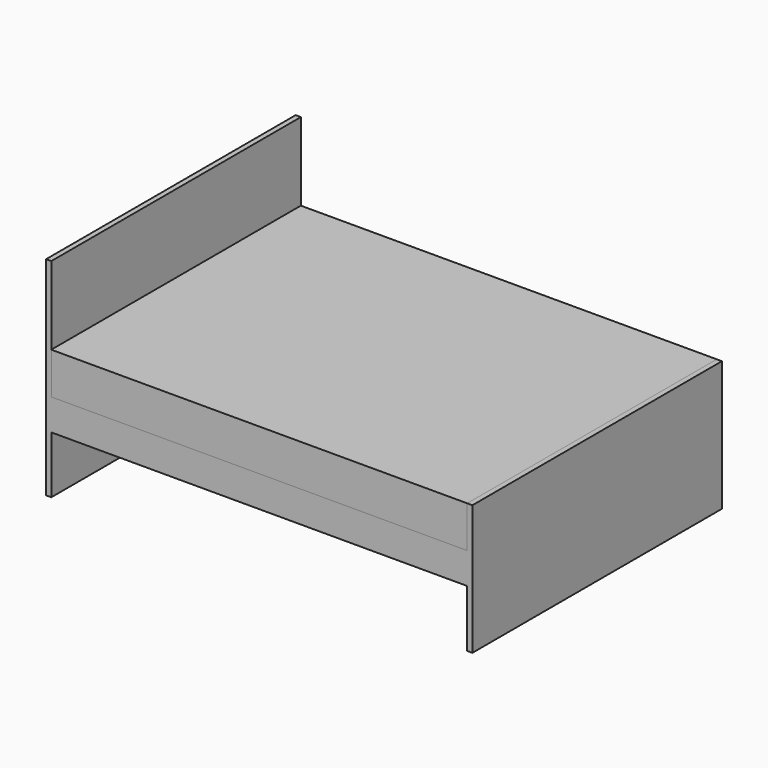
from build123d import *

# Parameters (mm, degrees)
F1_W      = 190.5
F1_H      = 158.75
F2_DEPTH  = 6.35
F3_W      = 190.5
F3_H      = 254
F4_DEPTH  = 6.35
F5_W      = 508
F5_H      = 38.1
F6_DEPTH  = 6.35
F8_W      = 508
F8_H      = 368.3
F9_DEPTH  = 6.35
F10_W     = 508
F10_H     = 381
F11_DEPTH = 50.8


with BuildPart() as f2:
    # F1 (on offset) → F2 (new body)
    with BuildSketch(Plane.YZ.offset(508)):
        with Locations((-95.25, 79.375)):
            Rectangle(F1_W, F1_H)
    extrude(amount=F2_DEPTH)



with BuildPart() as f4:
    # F3 (on Right) → F4 (new body)
    with BuildSketch(Plane.YZ):
        with Locations((-95.25, 127)):
            Rectangle(F3_W, F3_H)
    extrude(amount=-F4_DEPTH)


with BuildPart() as f2_1:
    add(f2.part)

    add(f4.part)  # F6 merges F4
    # F5 (on face) → F6 (join)
    with BuildSketch(Plane.XZ.offset(190.5)):
        with Locations((254, 88.9)):
            Rectangle(F5_W, F5_H)
    extrude(amount=-F6_DEPTH)

    # F7: F2 across plane


with BuildPart() as f2_2:
    add(f2_1.part)
    add(f2_1.part.mirror(Plane.XZ))

    # F8 (on face) → F9 (join)
    with BuildSketch(Plane.XY.offset(107.95)):
        with Locations((254, 0)):
            Rectangle(F8_W, F8_H)
    extrude(amount=-F9_DEPTH)


with BuildPart() as f11:
    # F10 (on face) → F11 (new body)
    with BuildSketch(Plane.XY.offset(107.95)):
        with Locations((254, 0)):
            Rectangle(F10_W, F10_H)
    extrude(amount=F11_DEPTH)


solid = Compound([f2_2.part, f11.part])
